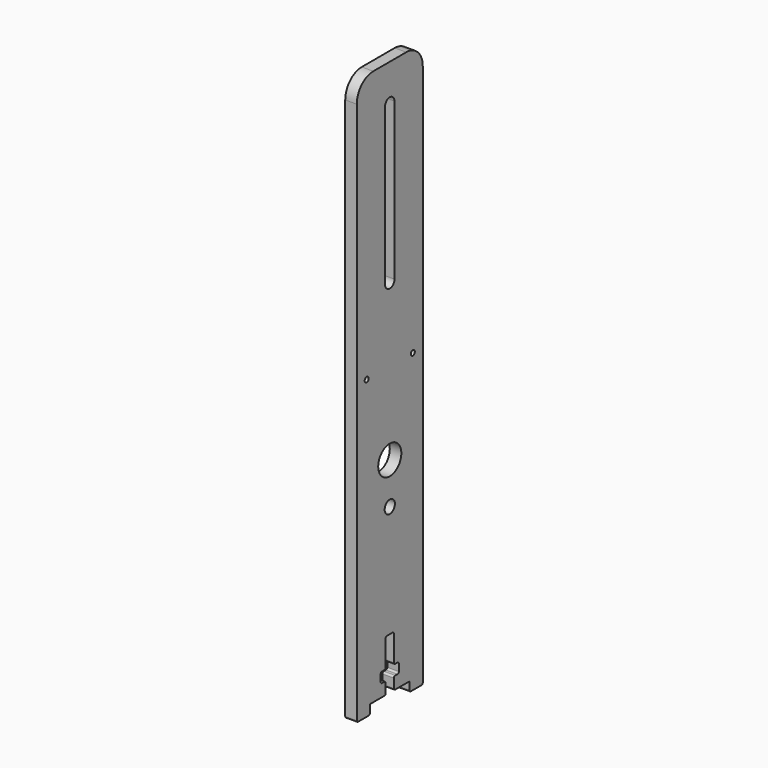
from build123d import *

# Parameters (mm, degrees)
SKETCH001_R             = 1.55
SKETCH001_R_2           = 0.6
PAD004_DEPTH            = 2.8
FILLET_R                = 0.4
FILLET001_R             = 5
SKETCH019_R             = 3.5
POCKET_DEPTH            = 2.801
BODY014_PLACEMENT_ANGLE = 180


with BuildPart() as part:
    # Sketch001 (on DatumPlane) → Pad004 (new body)
    with BuildSketch(Plane(origin=(-24.3, 0, 0), x_dir=(0, -1, 0), z_dir=(-1, 0, 0))):
        Polygon((-10, 85), (10, 85), (10, -52), (6, -52), (6, -49.7), (1.25, -49.7), (1.25, -46.7), (2.75, -46.7), (2.75, -44.2), (1.25, -44.2), (1.25, -37.2), (-1.25, -37.2), (-1.25, -44.2), (-2.75, -44.2), (-2.75, -46.7), (-1.25, -46.7), (-1.25, -49.7), (-6, -49.7), (-6, -52), (-10, -52), align=None)
        with Locations((0, -10)):
            Circle(SKETCH001_R, mode=Mode.SUBTRACT)
        with Locations((-7, 20)):
            Circle(SKETCH001_R_2, mode=Mode.SUBTRACT)
        with Locations((7, 20)):
            Circle(SKETCH001_R_2, mode=Mode.SUBTRACT)
        with BuildLine():
            ThreePointArc((1.425, 76), (0, 77.425), (-1.425, 76))
            Line((-1.425, 76), (-1.425, 38))
            ThreePointArc((-1.425, 38), (0, 36.575), (1.425, 38))
            Line((1.425, 38), (1.425, 76))
        make_face(mode=Mode.SUBTRACT)
    extrude(amount=PAD004_DEPTH)

    # Fillet
    fillet_edges = [part.edges().sort_by_distance(p)[0] for p in [
        (-25.7, 10, -52),
        (-25.7, 6, -52),
        (-25.7, -10, -52),
        (-25.7, -6, -52),
        (-25.7, 1.25, -49.7),
        (-25.7, -1.25, -49.7),
        (-25.7, 1.25, -37.2),
        (-25.7, -1.25, -37.2),
        (-25.7, 1.25, -46.7),
        (-25.7, -1.25, -46.7),
        (-25.7, 1.25, -44.2),
        (-25.7, -1.25, -44.2),
        (-25.7, -2.75, -46.7),
        (-25.7, 2.75, -46.7),
        (-25.7, 2.75, -44.2),
        (-25.7, -2.75, -44.2),
    ]]
    fillet(fillet_edges, radius=FILLET_R)

    # Fillet001
    fillet001_edges = [part.edges().sort_by_distance(p)[0] for p in [
        (-25.7, 10, 85),
        (-25.7, -10, 85),
    ]]
    fillet(fillet001_edges, radius=FILLET001_R)

    # Sketch019 (on Face47 of Fillet001) → Pocket (cut, through all)
    with BuildSketch(Plane(origin=(-27.1, 0, 0), x_dir=(0, -1, 0), z_dir=(-1, 0, 0))):
        Circle(SKETCH019_R)
    extrude(amount=-POCKET_DEPTH, mode=Mode.SUBTRACT)


with BuildPart() as part_1:
    # Body014 placement: moved
    add(part.part.moved(Location((0, 0, 20))).rotate(Axis((0, 0, 20), (0, 0, 1)), BODY014_PLACEMENT_ANGLE))


solid = part_1.part
